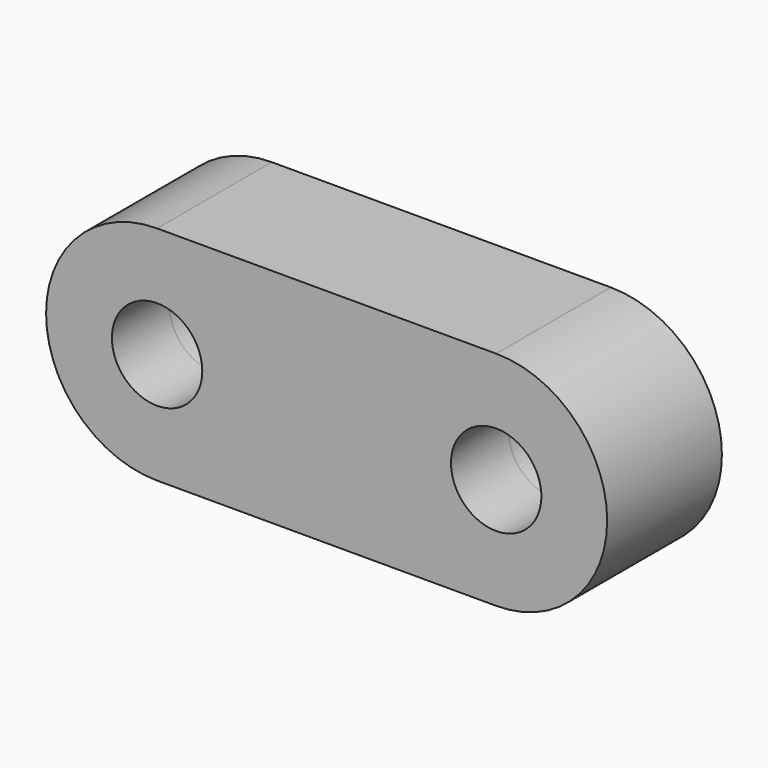
from build123d import *

# Parameters (mm, degrees)
F0_R     = 4.0005
F1_DEPTH = 6.35


with BuildPart() as f1:
    # F0 (on Front) → F1 (new body, symmetric)
    with BuildSketch(Plane.XZ):
        with BuildLine():
            Line((0, -9.8298), (0, 0))
            Line((0, 0), (0, 9.8298))
            Line((0, 9.8298), (-15.0114, 9.8298))
            ThreePointArc((-15.0114, 9.8298), (-24.8412, 0), (-15.0114, -9.8298))
            Line((-15.0114, -9.8298), (0, -9.8298))
        make_face()
        with Locations((-15.0114, 0)):
            Circle(F0_R, mode=Mode.SUBTRACT)
        with BuildLine():
            Line((0, 9.8298), (0, 0))
            Line((0, 0), (0, -9.8298))
            Line((0, -9.8298), (15.0114, -9.8298))
            ThreePointArc((15.0114, -9.8298), (24.8412, 0), (15.0114, 9.8298))
            Line((15.0114, 9.8298), (0, 9.8298))
        make_face()
        with BuildLine():
            ThreePointArc((19.0119, 0), (15.0114, -4.0005), (11.0109, 0))
            ThreePointArc((11.0109, 0), (15.0114, 4.0005), (19.0119, 0))
        make_face(mode=Mode.SUBTRACT)
    extrude(amount=F1_DEPTH, both=True)


solid = f1.part
